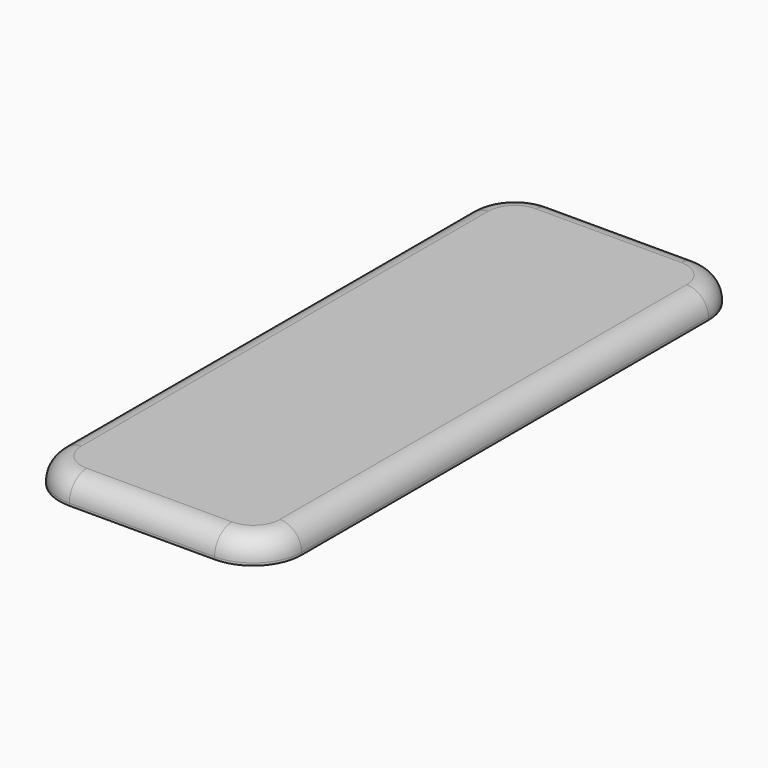
from build123d import *

# Parameters (mm, degrees)
SKETCH028_W  = 10
SKETCH028_H  = 25
PAD015_DEPTH = 1
FILLET021_R  = 2
FILLET022_R  = 0.9


with BuildPart() as part:
    # Sketch028 → Pad015 (new body)
    with BuildSketch(Plane.XY):
        Rectangle(SKETCH028_W, SKETCH028_H)
    extrude(amount=PAD015_DEPTH)

    # Fillet021
    fillet021_edges = [part.edges().sort_by_distance(p)[0] for p in [
        (-5, -12.5, 0.5),
        (-5, 12.5, 0.5),
        (5, -12.5, 0.5),
        (5, 12.5, 0.5),
    ]]
    fillet(fillet021_edges, radius=FILLET021_R)

    # Fillet022
    fillet022_edges = [part.edges().sort_by_distance(p)[0] for p in [
        (0, -12.5, 1),
        (5, 0, 1),
        (-5, 0, 1),
        (0, 12.5, 1),
    ]]
    fillet(fillet022_edges, radius=FILLET022_R)


with BuildPart() as part_1:
    # Body007 placement: moved
    add(part.part.moved(Location((0, -130, -23))))


solid = part_1.part
